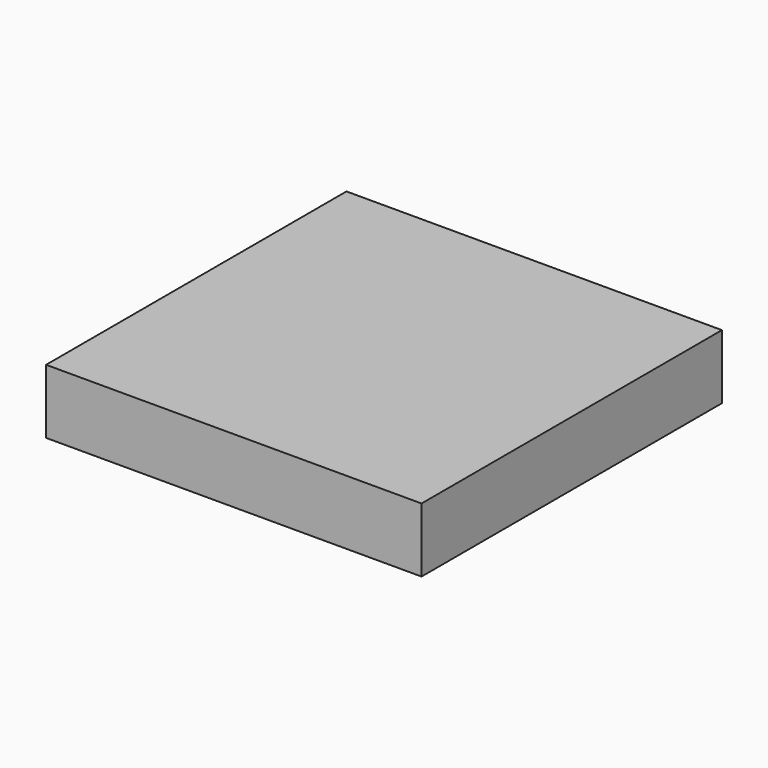
from build123d import *

# Parameters (mm, degrees)
SKETCH_W      = 14
SKETCH_H      = 14
EXTRUDE_DEPTH = 2.4


with BuildPart() as part:
    # Sketch → Extrude (new body)
    with BuildSketch(Plane.XY):
        Rectangle(SKETCH_W, SKETCH_H)
    extrude(amount=EXTRUDE_DEPTH)


solid = part.part
